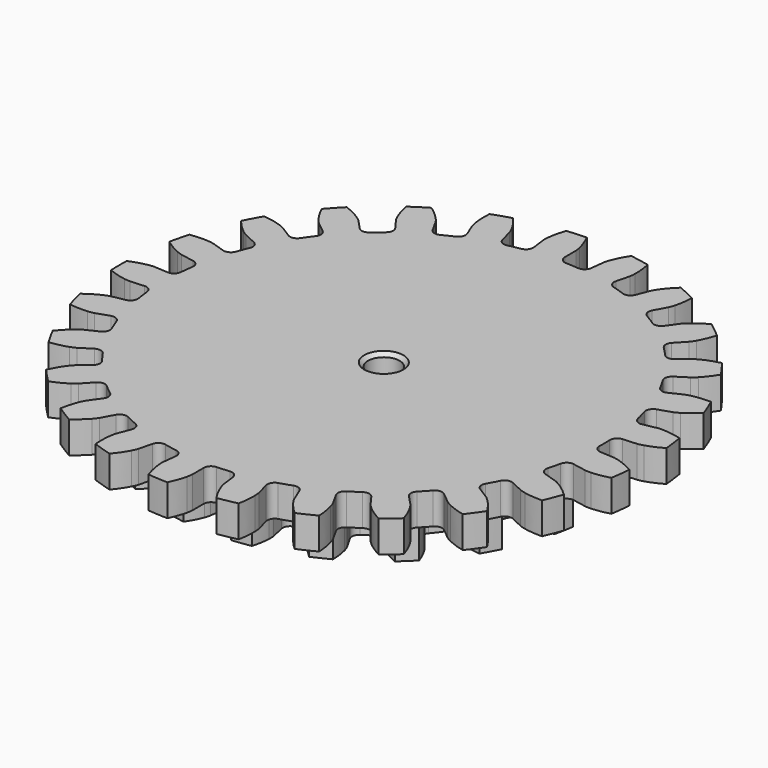
from build123d import *

# Parameters (mm, degrees)
PAD_DEPTH            = 8.5
PAD001_DEPTH         = 8.5
SKETCH001_R          = 4.25
POCKET_DEPTH         = 17.001
CHAMFER032_SIZE      = 1
CHAMFER037_SIZE      = 1
BODY_PLACEMENT_ANGLE = 7.5


with BuildPart() as part:
    # InvoluteGear → Pad (new body)
    with BuildSketch(Plane.XY):
        with BuildLine():
            Line((60.87215, -3.939404), (64.559683, -4.176009))
            add(Edge.make_bspline(
                [(64.559683, -4.176009), (64.737537, -4.17945), (65.274995, -4.173671), (66.171668, -4.026252)],
                knots=[0, 0, 0, 0, 1, 1, 1, 1], degree=3))
            add(Edge.make_bspline(
                [(66.171668, -4.026252), (67.249506, -3.847612), (68.822578, -3.465338), (70.827658, -2.652928)],
                knots=[0, 0, 0, 0, 1, 1, 1, 1], degree=3))
            ThreePointArc((70.827658, -2.652928), (70.877327, 0), (70.827658, 2.652928))
            add(Edge.make_bspline(
                [(70.827658, 2.652928), (68.822578, 3.465338), (67.249506, 3.847612), (66.171668, 4.026252)],
                knots=[0, 0, 0, 0, 1, 1, 1, 1], degree=3))
            add(Edge.make_bspline(
                [(66.171668, 4.026252), (65.274995, 4.173671), (64.737537, 4.17945), (64.559683, 4.176009)],
                knots=[0, 0, 0, 0, 1, 1, 1, 1], degree=3))
            Line((64.559683, 4.176009), (60.87215, 3.939404))
            ThreePointArc((60.87215, 3.939404), (59.470106, 4.403842), (58.785585, 5.712605))
            ThreePointArc((58.785585, 5.712605), (58.596775, 7.402494), (58.359395, 9.086248))
            ThreePointArc((58.359395, 9.086248), (58.696934, 10.524127), (59.939429, 11.322648))
            Line((59.939429, 11.322648), (63.569953, 12.010529))
            add(Edge.make_bspline(
                [(63.569953, 12.010529), (63.743075, 12.051426), (64.262211, 12.190684), (65.094051, 12.556465)],
                knots=[0, 0, 0, 0, 1, 1, 1, 1], degree=3))
            add(Edge.make_bspline(
                [(65.094051, 12.556465), (66.093601, 12.99754), (67.522184, 13.759011), (69.262234, 15.044541)],
                knots=[0, 0, 0, 0, 1, 1, 1, 1], degree=3))
            ThreePointArc((69.262234, 15.044541), (68.650585, 17.626474), (67.942721, 20.183704))
            add(Edge.make_bspline(
                [(67.942721, 20.183704), (65.798595, 20.471947), (64.179876, 20.451004), (63.091475, 20.355985)],
                knots=[0, 0, 0, 0, 1, 1, 1, 1], degree=3))
            add(Edge.make_bspline(
                [(63.091475, 20.355985), (62.186311, 20.275779), (61.664301, 20.147715), (61.492891, 20.100152)],
                knots=[0, 0, 0, 0, 1, 1, 1, 1], degree=3))
            Line((61.492891, 20.100152), (57.980049, 18.953928))
            ThreePointArc((57.980049, 18.953928), (56.506552, 19.055101), (55.518061, 20.152513))
            ThreePointArc((55.518061, 20.152513), (54.914924, 21.742356), (54.266269, 23.314178))
            ThreePointArc((54.266269, 23.314178), (54.235618, 24.790826), (55.240494, 25.873256))
            Line((55.240494, 25.873256), (58.585889, 27.4424))
            add(Edge.make_bspline(
                [(58.585889, 27.4424), (58.743401, 27.525066), (59.211596, 27.789053), (59.926336, 28.350212)],
                knots=[0, 0, 0, 0, 1, 1, 1, 1], degree=3))
            add(Edge.make_bspline(
                [(59.926336, 28.350212), (60.784792, 29.026008), (61.979124, 30.118831), (63.344808, 31.796706)],
                knots=[0, 0, 0, 0, 1, 1, 1, 1], degree=3))
            ThreePointArc((63.344808, 31.796706), (62.110275, 34.145413), (60.788692, 36.446263))
            add(Edge.make_bspline(
                [(60.788692, 36.446263), (58.640245, 36.192228), (57.07759, 35.769384), (56.047013, 35.406676)],
                knots=[0, 0, 0, 0, 1, 1, 1, 1], degree=3))
            add(Edge.make_bspline(
                [(56.047013, 35.406676), (55.190233, 35.103884), (54.716471, 34.850026), (54.562274, 34.761329)],
                knots=[0, 0, 0, 0, 1, 1, 1, 1], degree=3))
            Line((54.562274, 34.761329), (51.444849, 32.777508))
            ThreePointArc((51.444849, 32.777508), (49.992484, 32.509058), (48.762133, 33.326165))
            ThreePointArc((48.762133, 33.326165), (47.782566, 34.716066), (46.763394, 36.077193))
            ThreePointArc((46.763394, 36.077193), (46.366478, 37.499827), (47.070595, 38.798152))
            Line((47.070595, 38.798152), (49.920658, 41.149965))
            add(Edge.make_bspline(
                [(49.920658, 41.149965), (50.052664, 41.269206), (50.440498, 41.641334), (50.993229, 42.362612)],
                knots=[0, 0, 0, 0, 1, 1, 1, 1], degree=3))
            add(Edge.make_bspline(
                [(50.993229, 42.362612), (51.656651, 43.230666), (52.541687, 44.586174), (53.447195, 46.550967)],
                knots=[0, 0, 0, 0, 1, 1, 1, 1], degree=3))
            ThreePointArc((53.447195, 46.550967), (51.667348, 48.518869), (49.815087, 50.41877))
            add(Edge.make_bspline(
                [(49.815087, 50.41877), (47.797313, 49.638419), (46.388908, 48.840243), (45.480911, 48.232635)],
                knots=[0, 0, 0, 0, 1, 1, 1, 1], degree=3))
            add(Edge.make_bspline(
                [(45.480911, 48.232635), (44.726349, 47.726284), (44.330603, 47.362581), (44.203309, 47.238323)],
                knots=[0, 0, 0, 0, 1, 1, 1, 1], degree=3))
            Line((44.203309, 47.238323), (41.67718, 44.541556))
            ThreePointArc((41.67718, 44.541556), (40.337204, 43.920351), (38.942301, 44.405812))
            ThreePointArc((38.942301, 44.405812), (37.647854, 45.508438), (36.322203, 46.573345))
            ThreePointArc((36.322203, 46.573345), (35.583963, 47.852575), (35.943077, 49.285218))
            Line((35.943077, 49.285218), (38.118729, 52.271926))
            add(Edge.make_bspline(
                [(38.118729, 52.271926), (38.216933, 52.420249), (38.500038, 52.877137), (38.85603, 53.713213)],
                knots=[0, 0, 0, 0, 1, 1, 1, 1], degree=3))
            add(Edge.make_bspline(
                [(38.85603, 53.713213), (39.282733, 54.718982), (39.802863, 56.252003), (40.191298, 58.38026)],
                knots=[0, 0, 0, 0, 1, 1, 1, 1], degree=3))
            ThreePointArc((40.191298, 58.38026), (37.977971, 59.843706), (35.711416, 61.22328))
            add(Edge.make_bspline(
                [(35.711416, 61.22328), (33.9511, 59.965645), (32.785441, 58.842289), (32.057076, 58.027961)],
                knots=[0, 0, 0, 0, 1, 1, 1, 1], degree=3))
            add(Edge.make_bspline(
                [(32.057076, 58.027961), (31.452145, 57.349866), (31.159281, 56.899171), (31.066887, 56.74716)],
                knots=[0, 0, 0, 0, 1, 1, 1, 1], degree=3))
            Line((31.066887, 56.74716), (29.29078, 53.506894))
            ThreePointArc((29.29078, 53.506894), (28.14739, 52.571967), (26.67558, 52.695278))
            ThreePointArc((26.67558, 52.695278), (25.147589, 53.441348), (23.598755, 54.143122))
            ThreePointArc((23.598755, 54.143122), (22.565576, 55.19857), (22.557124, 56.675512))
            Line((22.557124, 56.675512), (23.921659, 60.109449))
            add(Edge.make_bspline(
                [(23.921659, 60.109449), (23.979892, 60.277535), (24.14048, 60.790474), (24.277363, 61.688816)],
                knots=[0, 0, 0, 0, 1, 1, 1, 1], degree=3))
            add(Edge.make_bspline(
                [(24.277363, 61.688816), (24.440537, 62.769103), (24.563078, 64.383313), (24.410035, 66.541306)],
                knots=[0, 0, 0, 0, 1, 1, 1, 1], degree=3))
            ThreePointArc((24.410035, 66.541306), (21.902298, 67.408343), (19.363866, 68.180906))
            add(Edge.make_bspline(
                [(19.363866, 68.180906), (17.971614, 66.525009), (17.121944, 65.147058), (16.618977, 64.177176)],
                knots=[0, 0, 0, 0, 1, 1, 1, 1], degree=3))
            add(Edge.make_bspline(
                [(16.618977, 64.177176), (16.201686, 63.369945), (16.030106, 62.860577), (15.978419, 62.690365)],
                knots=[0, 0, 0, 0, 1, 1, 1, 1], degree=3))
            Line((15.978419, 62.690365), (15.063933, 59.110197))
            ThreePointArc((15.063933, 59.110197), (14.188971, 57.920294), (12.732735, 57.673706))
            ThreePointArc((12.732735, 57.673706), (11.067209, 58.016341), (9.39251, 58.310888))
            ThreePointArc((9.39251, 58.310888), (8.12931, 59.076236), (7.753824, 60.504675))
            Line((7.753824, 60.504675), (8.221504, 64.170075))
            add(Edge.make_bspline(
                [(8.221504, 64.170075), (8.236106, 64.347362), (8.264086, 64.884123), (8.173261, 65.788283)],
                knots=[0, 0, 0, 0, 1, 1, 1, 1], degree=3))
            add(Edge.make_bspline(
                [(8.173261, 65.788283), (8.062651, 66.87521), (7.779905, 68.469182), (7.094999, 70.521317)],
                knots=[0, 0, 0, 0, 1, 1, 1, 1], degree=3))
            ThreePointArc((7.094999, 70.521317), (4.450424, 70.737467), (1.799612, 70.854475))
            add(Edge.make_bspline(
                [(1.799612, 70.854475), (0.862906, 68.904362), (0.382612, 67.358398), (0.136646, 66.293904)],
                knots=[0, 0, 0, 0, 1, 1, 1, 1], degree=3))
            add(Edge.make_bspline(
                [(0.136646, 66.293904), (-0.066784, 65.408257), (-0.106299, 64.872222), (-0.114032, 64.694503)],
                knots=[0, 0, 0, 0, 1, 1, 1, 1], degree=3))
            Line((-0.114032, 64.694503), (-0.109436, 60.99939))
            ThreePointArc((-0.109436, 60.99939), (-0.660993, 59.629275), (-2.010155, 59.028283))
            ThreePointArc((-2.010155, 59.028283), (-3.708565, 58.945954), (-5.403902, 58.814766))
            ThreePointArc((-5.403902, 58.814766), (-6.817749, 59.241924), (-7.536677, 60.532107))
            Line((-7.536677, 60.532107), (-7.995238, 64.198659))
            add(Edge.make_bspline(
                [(-7.995238, 64.198659), (-8.025185, 64.374008), (-8.131571, 64.900864), (-8.444398, 65.75403)],
                knots=[0, 0, 0, 0, 1, 1, 1, 1], degree=3))
            add(Edge.make_bspline(
                [(-8.444398, 65.75403), (-8.821841, 66.779302), (-9.492108, 68.25288), (-10.665842, 70.070215)],
                knots=[0, 0, 0, 0, 1, 1, 1, 1], degree=3))
            ThreePointArc((-10.665842, 70.070215), (-13.281087, 69.621894), (-15.877717, 69.075997))
            add(Edge.make_bspline(
                [(-15.877717, 69.075997), (-16.300022, 66.954201), (-16.380761, 65.337361), (-16.35427, 64.245141)],
                knots=[0, 0, 0, 0, 1, 1, 1, 1], degree=3))
            add(Edge.make_bspline(
                [(-16.35427, 64.245141), (-16.331058, 63.336728), (-16.236025, 62.807706), (-16.199318, 62.633647)],
                knots=[0, 0, 0, 0, 1, 1, 1, 1], degree=3))
            Line((-16.199318, 62.633647), (-15.27593, 59.055766))
            ThreePointArc((-15.27593, 59.055766), (-15.469424, 57.591529), (-16.626739, 56.673896))
            ThreePointArc((-16.626739, 56.673896), (-18.251316, 56.171775), (-19.860766, 55.623097))
            ThreePointArc((-19.860766, 55.623097), (-21.336425, 55.685225), (-22.353622, 56.756084))
            Line((-22.353622, 56.756084), (-23.70961, 60.193405))
            add(Edge.make_bspline(
                [(-23.70961, 60.193405), (-23.782223, 60.355798), (-24.016291, 60.839644), (-24.531464, 61.58821)],
                knots=[0, 0, 0, 0, 1, 1, 1, 1], degree=3))
            add(Edge.make_bspline(
                [(-24.531464, 61.58821), (-25.152023, 62.487405), (-26.167697, 63.747999), (-27.756509, 65.216343)],
                knots=[0, 0, 0, 0, 1, 1, 1, 1], degree=3))
            ThreePointArc((-27.756509, 65.216343), (-30.178098, 64.131723), (-32.557391, 62.95722))
            add(Edge.make_bspline(
                [(-32.557391, 62.95722), (-32.43876, 60.797061), (-32.11487, 59.210938), (-31.817588, 58.15962)],
                knots=[0, 0, 0, 0, 1, 1, 1, 1], degree=3))
            add(Edge.make_bspline(
                [(-31.817588, 58.15962), (-31.569192, 57.285519), (-31.345582, 56.796751), (-31.266742, 56.637289)],
                knots=[0, 0, 0, 0, 1, 1, 1, 1], degree=3))
            Line((-31.266742, 56.637289), (-29.48258, 53.401451))
            ThreePointArc((-29.48258, 53.401451), (-29.305855, 51.935096), (-30.198604, 50.758479))
            ThreePointArc((-30.198604, 50.758479), (-31.64727, 49.868118), (-33.069705, 48.936423))
            ThreePointArc((-33.069705, 48.936423), (-34.514454, 48.629618), (-35.766006, 49.413868))
            Line((-35.766006, 49.413868), (-37.934221, 52.405979))
            add(Edge.make_bspline(
                [(-37.934221, 52.405979), (-38.044938, 52.545211), (-38.391979, 52.955646), (-39.077128, 53.552576)],
                knots=[0, 0, 0, 0, 1, 1, 1, 1], degree=3))
            add(Edge.make_bspline(
                [(-39.077128, 53.552576), (-39.901812, 54.269195), (-41.199073, 55.237597), (-43.103132, 56.264689)],
                knots=[0, 0, 0, 0, 1, 1, 1, 1], degree=3))
            ThreePointArc((-43.103132, 56.264689), (-45.178908, 54.611919), (-47.191365, 52.882609))
            add(Edge.make_bspline(
                [(-47.191365, 52.882609), (-46.539251, 50.819818), (-45.831084, 49.364074), (-45.281689, 48.419717)],
                knots=[0, 0, 0, 0, 1, 1, 1, 1], degree=3))
            add(Edge.make_bspline(
                [(-45.281689, 48.419717), (-44.823717, 47.63485), (-44.48558, 47.217048), (-44.36956, 47.082202)],
                knots=[0, 0, 0, 0, 1, 1, 1, 1], degree=3))
            Line((-44.36956, 47.082202), (-41.836731, 44.391727))
            ThreePointArc((-41.836731, 44.391727), (-41.30089, 43.01539), (-41.87298, 41.653721))
            ThreePointArc((-41.87298, 41.653721), (-43.05471, 40.431063), (-44.200753, 39.174894))
            ThreePointArc((-44.200753, 39.174894), (-45.523813, 38.518434), (-46.93108, 38.966796))
            Line((-46.93108, 38.966796), (-49.775284, 41.325691))
            add(Edge.make_bspline(
                [(-49.775284, 41.325691), (-49.917149, 41.433015), (-50.355358, 41.74425), (-51.167432, 42.152037)],
                knots=[0, 0, 0, 0, 1, 1, 1, 1], degree=3))
            add(Edge.make_bspline(
                [(-51.167432, 42.152037), (-52.144423, 42.641051), (-53.64176, 43.256413), (-55.741427, 43.777717)],
                knots=[0, 0, 0, 0, 1, 1, 1, 1], degree=3))
            ThreePointArc((-55.741427, 43.777717), (-57.340962, 41.660647), (-58.860131, 39.485189))
            add(Edge.make_bspline(
                [(-58.860131, 39.485189), (-57.715509, 37.649379), (-56.667562, 36.415484), (-55.900576, 35.637424)],
                knots=[0, 0, 0, 0, 1, 1, 1, 1], degree=3))
            add(Edge.make_bspline(
                [(-55.900576, 35.637424), (-55.261803, 34.991109), (-54.830386, 34.670524), (-54.684477, 34.568768)],
                knots=[0, 0, 0, 0, 1, 1, 1, 1], degree=3))
            Line((-54.684477, 34.568768), (-51.562127, 32.592707))
            ThreePointArc((-51.562127, 32.592707), (-50.700839, 31.392869), (-50.916322, 29.931706))
            ThreePointArc((-50.916322, 29.931706), (-51.756863, 28.453576), (-52.554505, 26.951863))
            ThreePointArc((-52.554505, 26.951863), (-53.672744, 25.986994), (-55.147302, 26.071298))
            Line((-55.147302, 26.071298), (-58.488784, 27.648759))
            add(Edge.make_bspline(
                [(-58.488784, 27.648759), (-58.652881, 27.717431), (-59.154725, 27.90991), (-60.042699, 28.10293)],
                knots=[0, 0, 0, 0, 1, 1, 1, 1], degree=3))
            add(Edge.make_bspline(
                [(-60.042699, 28.10293), (-61.110608, 28.333613), (-62.713938, 28.55727), (-64.877283, 28.54003)],
                knots=[0, 0, 0, 0, 1, 1, 1, 1], degree=3))
            ThreePointArc((-64.877283, 28.54003), (-65.900072, 26.091684), (-66.830499, 23.60677))
            add(Edge.make_bspline(
                [(-66.830499, 23.60677), (-65.26529, 22.113291), (-63.943409, 21.178775), (-63.007023, 20.615901)],
                knots=[0, 0, 0, 0, 1, 1, 1, 1], degree=3))
            add(Edge.make_bspline(
                [(-63.007023, 20.615901), (-62.227586, 20.148747), (-61.729998, 19.945523), (-61.563366, 19.88325)],
                knots=[0, 0, 0, 0, 1, 1, 1, 1], degree=3))
            Line((-61.563366, 19.88325), (-58.047685, 18.745768))
            ThreePointArc((-58.047685, 18.745768), (-56.915068, 17.797818), (-56.760405, 16.328972))
            ThreePointArc((-56.760405, 16.328972), (-57.206943, 14.688246), (-57.606064, 13.035347))
            ThreePointArc((-57.606064, 13.035347), (-58.449219, 11.822697), (-59.898416, 11.537644))
            Line((-59.898416, 11.537644), (-63.527218, 12.234553))
            add(Edge.make_bspline(
                [(-63.527218, 12.234553), (-63.703238, 12.260258), (-64.237183, 12.321887), (-65.145261, 12.288013)],
                knots=[0, 0, 0, 0, 1, 1, 1, 1], degree=3))
            add(Edge.make_bspline(
                [(-65.145261, 12.288013), (-66.236989, 12.24587), (-67.845569, 12.063769), (-69.936661, 11.509068)],
                knots=[0, 0, 0, 0, 1, 1, 1, 1], degree=3))
            ThreePointArc((-69.936661, 11.509068), (-70.318438, 8.883285), (-70.601661, 6.245051))
            add(Edge.make_bspline(
                [(-70.601661, 6.245051), (-68.714213, 5.187744), (-67.201457, 4.611326), (-66.154508, 4.299005)],
                knots=[0, 0, 0, 0, 1, 1, 1, 1], degree=3))
            add(Edge.make_bspline(
                [(-66.154508, 4.299005), (-65.283382, 4.040366), (-64.750886, 3.967271), (-64.574003, 3.948394)],
                knots=[0, 0, 0, 0, 1, 1, 1, 1], degree=3))
            Line((-64.574003, 3.948394), (-60.885893, 3.720963))
            ThreePointArc((-60.885893, 3.720963), (-59.553114, 3.084465), (-59.038023, 1.700229))
            ThreePointArc((-59.038023, 1.700229), (-59.0625, 0), (-59.038023, -1.700229))
            ThreePointArc((-59.038023, -1.700229), (-59.553114, -3.084465), (-60.885893, -3.720963))
            Line((-60.885893, -3.720963), (-64.574003, -3.948394))
            add(Edge.make_bspline(
                [(-64.574003, -3.948394), (-64.750886, -3.967271), (-65.283382, -4.040366), (-66.154508, -4.299005)],
                knots=[0, 0, 0, 0, 1, 1, 1, 1], degree=3))
            add(Edge.make_bspline(
                [(-66.154508, -4.299005), (-67.201457, -4.611326), (-68.714213, -5.187744), (-70.601661, -6.245051)],
                knots=[0, 0, 0, 0, 1, 1, 1, 1], degree=3))
            ThreePointArc((-70.601661, -6.245051), (-70.318438, -8.883285), (-69.936661, -11.509068))
            add(Edge.make_bspline(
                [(-69.936661, -11.509068), (-67.845569, -12.063769), (-66.236989, -12.24587), (-65.145261, -12.288013)],
                knots=[0, 0, 0, 0, 1, 1, 1, 1], degree=3))
            add(Edge.make_bspline(
                [(-65.145261, -12.288013), (-64.237183, -12.321887), (-63.703238, -12.260258), (-63.527218, -12.234553)],
                knots=[0, 0, 0, 0, 1, 1, 1, 1], degree=3))
            Line((-63.527218, -12.234553), (-59.898416, -11.537644))
            ThreePointArc((-59.898416, -11.537644), (-58.449219, -11.822697), (-57.606064, -13.035347))
            ThreePointArc((-57.606064, -13.035347), (-57.206943, -14.688246), (-56.760405, -16.328972))
            ThreePointArc((-56.760405, -16.328972), (-56.915068, -17.797818), (-58.047685, -18.745768))
            Line((-58.047685, -18.745768), (-61.563366, -19.88325))
            add(Edge.make_bspline(
                [(-61.563366, -19.88325), (-61.729998, -19.945523), (-62.227586, -20.148747), (-63.007023, -20.615901)],
                knots=[0, 0, 0, 0, 1, 1, 1, 1], degree=3))
            add(Edge.make_bspline(
                [(-63.007023, -20.615901), (-63.943409, -21.178775), (-65.26529, -22.113291), (-66.830499, -23.60677)],
                knots=[0, 0, 0, 0, 1, 1, 1, 1], degree=3))
            ThreePointArc((-66.830499, -23.60677), (-65.900072, -26.091684), (-64.877283, -28.54003))
            add(Edge.make_bspline(
                [(-64.877283, -28.54003), (-62.713938, -28.55727), (-61.110608, -28.333613), (-60.042699, -28.10293)],
                knots=[0, 0, 0, 0, 1, 1, 1, 1], degree=3))
            add(Edge.make_bspline(
                [(-60.042699, -28.10293), (-59.154725, -27.90991), (-58.652881, -27.717431), (-58.488784, -27.648759)],
                knots=[0, 0, 0, 0, 1, 1, 1, 1], degree=3))
            Line((-58.488784, -27.648759), (-55.147302, -26.071298))
            ThreePointArc((-55.147302, -26.071298), (-53.672744, -25.986994), (-52.554505, -26.951863))
            ThreePointArc((-52.554505, -26.951863), (-51.756863, -28.453576), (-50.916322, -29.931706))
            ThreePointArc((-50.916322, -29.931706), (-50.700839, -31.392869), (-51.562127, -32.592707))
            Line((-51.562127, -32.592707), (-54.684477, -34.568768))
            add(Edge.make_bspline(
                [(-54.684477, -34.568768), (-54.830386, -34.670524), (-55.261803, -34.991109), (-55.900576, -35.637424)],
                knots=[0, 0, 0, 0, 1, 1, 1, 1], degree=3))
            add(Edge.make_bspline(
                [(-55.900576, -35.637424), (-56.667562, -36.415484), (-57.715509, -37.649379), (-58.860131, -39.485189)],
                knots=[0, 0, 0, 0, 1, 1, 1, 1], degree=3))
            ThreePointArc((-58.860131, -39.485189), (-57.340962, -41.660647), (-55.741427, -43.777717))
            add(Edge.make_bspline(
                [(-55.741427, -43.777717), (-53.64176, -43.256413), (-52.144423, -42.641051), (-51.167432, -42.152037)],
                knots=[0, 0, 0, 0, 1, 1, 1, 1], degree=3))
            add(Edge.make_bspline(
                [(-51.167432, -42.152037), (-50.355358, -41.74425), (-49.917149, -41.433015), (-49.775284, -41.325691)],
                knots=[0, 0, 0, 0, 1, 1, 1, 1], degree=3))
            Line((-49.775284, -41.325691), (-46.93108, -38.966796))
            ThreePointArc((-46.93108, -38.966796), (-45.523813, -38.518434), (-44.200753, -39.174894))
            ThreePointArc((-44.200753, -39.174894), (-43.05471, -40.431063), (-41.87298, -41.653721))
            ThreePointArc((-41.87298, -41.653721), (-41.30089, -43.01539), (-41.836731, -44.391727))
            Line((-41.836731, -44.391727), (-44.36956, -47.082202))
            add(Edge.make_bspline(
                [(-44.36956, -47.082202), (-44.48558, -47.217048), (-44.823717, -47.63485), (-45.281689, -48.419717)],
                knots=[0, 0, 0, 0, 1, 1, 1, 1], degree=3))
            add(Edge.make_bspline(
                [(-45.281689, -48.419717), (-45.831084, -49.364074), (-46.539251, -50.819818), (-47.191365, -52.882609)],
                knots=[0, 0, 0, 0, 1, 1, 1, 1], degree=3))
            ThreePointArc((-47.191365, -52.882609), (-45.178908, -54.611919), (-43.103132, -56.264689))
            add(Edge.make_bspline(
                [(-43.103132, -56.264689), (-41.199073, -55.237597), (-39.901812, -54.269195), (-39.077128, -53.552576)],
                knots=[0, 0, 0, 0, 1, 1, 1, 1], degree=3))
            add(Edge.make_bspline(
                [(-39.077128, -53.552576), (-38.391979, -52.955646), (-38.044938, -52.545211), (-37.934221, -52.405979)],
                knots=[0, 0, 0, 0, 1, 1, 1, 1], degree=3))
            Line((-37.934221, -52.405979), (-35.766006, -49.413868))
            ThreePointArc((-35.766006, -49.413868), (-34.514454, -48.629618), (-33.069705, -48.936423))
            ThreePointArc((-33.069705, -48.936423), (-31.64727, -49.868118), (-30.198604, -50.758479))
            ThreePointArc((-30.198604, -50.758479), (-29.305855, -51.935096), (-29.48258, -53.401451))
            Line((-29.48258, -53.401451), (-31.266742, -56.637289))
            add(Edge.make_bspline(
                [(-31.266742, -56.637289), (-31.345582, -56.796751), (-31.569192, -57.285519), (-31.817588, -58.15962)],
                knots=[0, 0, 0, 0, 1, 1, 1, 1], degree=3))
            add(Edge.make_bspline(
                [(-31.817588, -58.15962), (-32.11487, -59.210938), (-32.43876, -60.797061), (-32.557391, -62.95722)],
                knots=[0, 0, 0, 0, 1, 1, 1, 1], degree=3))
            ThreePointArc((-32.557391, -62.95722), (-30.178098, -64.131723), (-27.756509, -65.216343))
            add(Edge.make_bspline(
                [(-27.756509, -65.216343), (-26.167697, -63.747999), (-25.152023, -62.487405), (-24.531464, -61.58821)],
                knots=[0, 0, 0, 0, 1, 1, 1, 1], degree=3))
            add(Edge.make_bspline(
                [(-24.531464, -61.58821), (-24.016291, -60.839644), (-23.782223, -60.355798), (-23.70961, -60.193405)],
                knots=[0, 0, 0, 0, 1, 1, 1, 1], degree=3))
            Line((-23.70961, -60.193405), (-22.353622, -56.756084))
            ThreePointArc((-22.353622, -56.756084), (-21.336425, -55.685225), (-19.860766, -55.623097))
            ThreePointArc((-19.860766, -55.623097), (-18.251316, -56.171775), (-16.626739, -56.673896))
            ThreePointArc((-16.626739, -56.673896), (-15.469424, -57.591529), (-15.27593, -59.055766))
            Line((-15.27593, -59.055766), (-16.199318, -62.633647))
            add(Edge.make_bspline(
                [(-16.199318, -62.633647), (-16.236025, -62.807706), (-16.331058, -63.336728), (-16.35427, -64.245141)],
                knots=[0, 0, 0, 0, 1, 1, 1, 1], degree=3))
            add(Edge.make_bspline(
                [(-16.35427, -64.245141), (-16.380761, -65.337361), (-16.300022, -66.954201), (-15.877717, -69.075997)],
                knots=[0, 0, 0, 0, 1, 1, 1, 1], degree=3))
            ThreePointArc((-15.877717, -69.075997), (-13.281087, -69.621894), (-10.665842, -70.070215))
            add(Edge.make_bspline(
                [(-10.665842, -70.070215), (-9.492108, -68.25288), (-8.821841, -66.779302), (-8.444398, -65.75403)],
                knots=[0, 0, 0, 0, 1, 1, 1, 1], degree=3))
            add(Edge.make_bspline(
                [(-8.444398, -65.75403), (-8.131571, -64.900864), (-8.025185, -64.374008), (-7.995238, -64.198659)],
                knots=[0, 0, 0, 0, 1, 1, 1, 1], degree=3))
            Line((-7.995238, -64.198659), (-7.536677, -60.532107))
            ThreePointArc((-7.536677, -60.532107), (-6.817749, -59.241924), (-5.403902, -58.814766))
            ThreePointArc((-5.403902, -58.814766), (-3.708565, -58.945954), (-2.010155, -59.028283))
            ThreePointArc((-2.010155, -59.028283), (-0.660993, -59.629275), (-0.109436, -60.99939))
            Line((-0.109436, -60.99939), (-0.114032, -64.694503))
            add(Edge.make_bspline(
                [(-0.114032, -64.694503), (-0.106299, -64.872222), (-0.066784, -65.408257), (0.136646, -66.293904)],
                knots=[0, 0, 0, 0, 1, 1, 1, 1], degree=3))
            add(Edge.make_bspline(
                [(0.136646, -66.293904), (0.382612, -67.358398), (0.862906, -68.904362), (1.799612, -70.854475)],
                knots=[0, 0, 0, 0, 1, 1, 1, 1], degree=3))
            ThreePointArc((1.799612, -70.854475), (4.450424, -70.737467), (7.094999, -70.521317))
            add(Edge.make_bspline(
                [(7.094999, -70.521317), (7.779905, -68.469182), (8.062651, -66.87521), (8.173261, -65.788283)],
                knots=[0, 0, 0, 0, 1, 1, 1, 1], degree=3))
            add(Edge.make_bspline(
                [(8.173261, -65.788283), (8.264086, -64.884123), (8.236106, -64.347362), (8.221504, -64.170075)],
                knots=[0, 0, 0, 0, 1, 1, 1, 1], degree=3))
            Line((8.221504, -64.170075), (7.753824, -60.504675))
            ThreePointArc((7.753824, -60.504675), (8.12931, -59.076236), (9.39251, -58.310888))
            ThreePointArc((9.39251, -58.310888), (11.067209, -58.016341), (12.732735, -57.673706))
            ThreePointArc((12.732735, -57.673706), (14.188971, -57.920294), (15.063933, -59.110197))
            Line((15.063933, -59.110197), (15.978419, -62.690365))
            add(Edge.make_bspline(
                [(15.978419, -62.690365), (16.030106, -62.860577), (16.201686, -63.369945), (16.618977, -64.177176)],
                knots=[0, 0, 0, 0, 1, 1, 1, 1], degree=3))
            add(Edge.make_bspline(
                [(16.618977, -64.177176), (17.121944, -65.147058), (17.971614, -66.525009), (19.363866, -68.180906)],
                knots=[0, 0, 0, 0, 1, 1, 1, 1], degree=3))
            ThreePointArc((19.363866, -68.180906), (21.902298, -67.408343), (24.410035, -66.541306))
            add(Edge.make_bspline(
                [(24.410035, -66.541306), (24.563078, -64.383313), (24.440537, -62.769103), (24.277363, -61.688816)],
                knots=[0, 0, 0, 0, 1, 1, 1, 1], degree=3))
            add(Edge.make_bspline(
                [(24.277363, -61.688816), (24.14048, -60.790474), (23.979892, -60.277535), (23.921659, -60.109449)],
                knots=[0, 0, 0, 0, 1, 1, 1, 1], degree=3))
            Line((23.921659, -60.109449), (22.557124, -56.675512))
            ThreePointArc((22.557124, -56.675512), (22.565576, -55.19857), (23.598755, -54.143122))
            ThreePointArc((23.598755, -54.143122), (25.147589, -53.441348), (26.67558, -52.695278))
            ThreePointArc((26.67558, -52.695278), (28.14739, -52.571967), (29.29078, -53.506894))
            Line((29.29078, -53.506894), (31.066887, -56.74716))
            add(Edge.make_bspline(
                [(31.066887, -56.74716), (31.159281, -56.899171), (31.452145, -57.349866), (32.057076, -58.027961)],
                knots=[0, 0, 0, 0, 1, 1, 1, 1], degree=3))
            add(Edge.make_bspline(
                [(32.057076, -58.027961), (32.785441, -58.842289), (33.9511, -59.965645), (35.711416, -61.22328)],
                knots=[0, 0, 0, 0, 1, 1, 1, 1], degree=3))
            ThreePointArc((35.711416, -61.22328), (37.977971, -59.843706), (40.191298, -58.38026))
            add(Edge.make_bspline(
                [(40.191298, -58.38026), (39.802863, -56.252003), (39.282733, -54.718982), (38.85603, -53.713213)],
                knots=[0, 0, 0, 0, 1, 1, 1, 1], degree=3))
            add(Edge.make_bspline(
                [(38.85603, -53.713213), (38.500038, -52.877137), (38.216933, -52.420249), (38.118729, -52.271926)],
                knots=[0, 0, 0, 0, 1, 1, 1, 1], degree=3))
            Line((38.118729, -52.271926), (35.943077, -49.285218))
            ThreePointArc((35.943077, -49.285218), (35.583963, -47.852575), (36.322203, -46.573345))
            ThreePointArc((36.322203, -46.573345), (37.647854, -45.508438), (38.942301, -44.405812))
            ThreePointArc((38.942301, -44.405812), (40.337204, -43.920351), (41.67718, -44.541556))
            Line((41.67718, -44.541556), (44.203309, -47.238323))
            add(Edge.make_bspline(
                [(44.203309, -47.238323), (44.330603, -47.362581), (44.726349, -47.726284), (45.480911, -48.232635)],
                knots=[0, 0, 0, 0, 1, 1, 1, 1], degree=3))
            add(Edge.make_bspline(
                [(45.480911, -48.232635), (46.388908, -48.840243), (47.797313, -49.638419), (49.815087, -50.41877)],
                knots=[0, 0, 0, 0, 1, 1, 1, 1], degree=3))
            ThreePointArc((49.815087, -50.41877), (51.667348, -48.518869), (53.447195, -46.550967))
            add(Edge.make_bspline(
                [(53.447195, -46.550967), (52.541687, -44.586174), (51.656651, -43.230666), (50.993229, -42.362612)],
                knots=[0, 0, 0, 0, 1, 1, 1, 1], degree=3))
            add(Edge.make_bspline(
                [(50.993229, -42.362612), (50.440498, -41.641334), (50.052664, -41.269206), (49.920658, -41.149965)],
                knots=[0, 0, 0, 0, 1, 1, 1, 1], degree=3))
            Line((49.920658, -41.149965), (47.070595, -38.798152))
            ThreePointArc((47.070595, -38.798152), (46.366478, -37.499827), (46.763394, -36.077193))
            ThreePointArc((46.763394, -36.077193), (47.782566, -34.716066), (48.762133, -33.326165))
            ThreePointArc((48.762133, -33.326165), (49.992484, -32.509058), (51.444849, -32.777508))
            Line((51.444849, -32.777508), (54.562274, -34.761329))
            add(Edge.make_bspline(
                [(54.562274, -34.761329), (54.716471, -34.850026), (55.190233, -35.103884), (56.047013, -35.406676)],
                knots=[0, 0, 0, 0, 1, 1, 1, 1], degree=3))
            add(Edge.make_bspline(
                [(56.047013, -35.406676), (57.07759, -35.769384), (58.640245, -36.192228), (60.788692, -36.446263)],
                knots=[0, 0, 0, 0, 1, 1, 1, 1], degree=3))
            ThreePointArc((60.788692, -36.446263), (62.110275, -34.145413), (63.344808, -31.796706))
            add(Edge.make_bspline(
                [(63.344808, -31.796706), (61.979124, -30.118831), (60.784792, -29.026008), (59.926336, -28.350212)],
                knots=[0, 0, 0, 0, 1, 1, 1, 1], degree=3))
            add(Edge.make_bspline(
                [(59.926336, -28.350212), (59.211596, -27.789053), (58.743401, -27.525066), (58.585889, -27.4424)],
                knots=[0, 0, 0, 0, 1, 1, 1, 1], degree=3))
            Line((58.585889, -27.4424), (55.240494, -25.873256))
            ThreePointArc((55.240494, -25.873256), (54.235618, -24.790826), (54.266269, -23.314178))
            ThreePointArc((54.266269, -23.314178), (54.914924, -21.742356), (55.518061, -20.152513))
            ThreePointArc((55.518061, -20.152513), (56.506552, -19.055101), (57.980049, -18.953928))
            Line((57.980049, -18.953928), (61.492891, -20.100152))
            add(Edge.make_bspline(
                [(61.492891, -20.100152), (61.664301, -20.147715), (62.186311, -20.275779), (63.091475, -20.355985)],
                knots=[0, 0, 0, 0, 1, 1, 1, 1], degree=3))
            add(Edge.make_bspline(
                [(63.091475, -20.355985), (64.179876, -20.451004), (65.798595, -20.471947), (67.942721, -20.183704)],
                knots=[0, 0, 0, 0, 1, 1, 1, 1], degree=3))
            ThreePointArc((67.942721, -20.183704), (68.650585, -17.626474), (69.262234, -15.044541))
            add(Edge.make_bspline(
                [(69.262234, -15.044541), (67.522184, -13.759011), (66.093601, -12.99754), (65.094051, -12.556465)],
                knots=[0, 0, 0, 0, 1, 1, 1, 1], degree=3))
            add(Edge.make_bspline(
                [(65.094051, -12.556465), (64.262211, -12.190684), (63.743075, -12.051426), (63.569953, -12.010529)],
                knots=[0, 0, 0, 0, 1, 1, 1, 1], degree=3))
            Line((63.569953, -12.010529), (59.939429, -11.322648))
            ThreePointArc((59.939429, -11.322648), (58.696934, -10.524127), (58.359395, -9.086248))
            ThreePointArc((58.359395, -9.086248), (58.596775, -7.402494), (58.785585, -5.712605))
            ThreePointArc((58.785585, -5.712605), (59.470106, -4.403842), (60.87215, -3.939404))
        make_face()
    extrude(amount=PAD_DEPTH)

    # InvoluteGear001 → Pad001 (join)
    with BuildSketch(Plane.XY):
        with BuildLine():
            Line((47.711411, -3.841109), (51.600964, -4.152025))
            add(Edge.make_bspline(
                [(51.600964, -4.152025), (51.774762, -4.157279), (52.299528, -4.155691), (53.176068, -4.004317)],
                knots=[0, 0, 0, 0, 1, 1, 1, 1], degree=3))
            add(Edge.make_bspline(
                [(53.176068, -4.004317), (54.228362, -3.820695), (55.759297, -3.422287), (57.695732, -2.5657)],
                knots=[0, 0, 0, 0, 1, 1, 1, 1], degree=3))
            ThreePointArc((57.695732, -2.5657), (57.752755, 0), (57.695732, 2.5657))
            add(Edge.make_bspline(
                [(57.695732, 2.5657), (55.759297, 3.422287), (54.228362, 3.820695), (53.176068, 4.004317)],
                knots=[0, 0, 0, 0, 1, 1, 1, 1], degree=3))
            add(Edge.make_bspline(
                [(53.176068, 4.004317), (52.299528, 4.155691), (51.774762, 4.157279), (51.600964, 4.152025)],
                knots=[0, 0, 0, 0, 1, 1, 1, 1], degree=3))
            Line((51.600964, 4.152025), (47.711411, 3.841109))
            ThreePointArc((47.711411, 3.841109), (46.309212, 4.277759), (45.599366, 5.563427))
            ThreePointArc((45.599366, 5.563427), (45.371933, 7.186208), (45.086768, 8.799845))
            ThreePointArc((45.086768, 8.799845), (45.364578, 10.241943), (46.563216, 11.090525))
            Line((46.563216, 11.090525), (50.358479, 11.996764))
            add(Edge.make_bspline(
                [(50.358479, 11.996764), (50.525394, 12.045474), (51.023986, 12.209146), (51.810848, 12.623977)],
                knots=[0, 0, 0, 0, 1, 1, 1, 1], degree=3))
            add(Edge.make_bspline(
                [(51.810848, 12.623977), (52.754897, 13.123789), (54.087788, 13.975782), (55.664747, 15.388836)],
                knots=[0, 0, 0, 0, 1, 1, 1, 1], degree=3))
            ThreePointArc((55.664747, 15.388836), (54.926134, 17.846583), (54.079057, 20.269088))
            add(Edge.make_bspline(
                [(54.079057, 20.269088), (51.972698, 20.485359), (50.393577, 20.391182), (49.336044, 20.24064)],
                knots=[0, 0, 0, 0, 1, 1, 1, 1], degree=3))
            add(Edge.make_bspline(
                [(49.336044, 20.24064), (48.455628, 20.11374), (47.956055, 19.953088), (47.792387, 19.894385)],
                knots=[0, 0, 0, 0, 1, 1, 1, 1], degree=3))
            Line((47.792387, 19.894385), (44.18928, 18.396748))
            ThreePointArc((44.18928, 18.396748), (42.720777, 18.378724), (41.648381, 19.382113))
            ThreePointArc((41.648381, 19.382113), (40.930612, 20.855189), (40.160763, 22.301728))
            ThreePointArc((40.160763, 22.301728), (39.979343, 23.759092), (40.857089, 24.936541))
            Line((40.857089, 24.936541), (44.186556, 26.971227))
            add(Edge.make_bspline(
                [(44.186556, 26.971227), (44.330249, 27.069132), (44.753861, 27.378867), (45.374021, 28.016548)],
                knots=[0, 0, 0, 0, 1, 1, 1, 1], degree=3))
            add(Edge.make_bspline(
                [(45.374021, 28.016548), (46.117414, 28.783624), (47.121789, 30.005804), (48.184909, 31.837005)],
                knots=[0, 0, 0, 0, 1, 1, 1, 1], degree=3))
            ThreePointArc((48.184909, 31.837005), (46.72296, 33.946218), (45.168747, 35.988396))
            add(Edge.make_bspline(
                [(45.168747, 35.988396), (43.098649, 35.543181), (41.625918, 34.965638), (40.666665, 34.495669)],
                knots=[0, 0, 0, 0, 1, 1, 1, 1], degree=3))
            add(Edge.make_bspline(
                [(40.666665, 34.495669), (39.868553, 34.102916), (39.443075, 33.79575), (39.305558, 33.689344)],
                knots=[0, 0, 0, 0, 1, 1, 1, 1], degree=3))
            Line((39.305558, 33.689344), (36.341595, 31.151586))
            ThreePointArc((36.341595, 31.151586), (34.950536, 30.680651), (33.620561, 31.303542))
            ThreePointArc((33.620561, 31.303542), (32.482718, 32.482718), (31.303542, 33.620561))
            ThreePointArc((31.303542, 33.620561), (30.680651, 34.950536), (31.151586, 36.341595))
            Line((31.151586, 36.341595), (33.689344, 39.305558))
            add(Edge.make_bspline(
                [(33.689344, 39.305558), (33.79575, 39.443075), (34.102916, 39.868553), (34.495669, 40.666665)],
                knots=[0, 0, 0, 0, 1, 1, 1, 1], degree=3))
            add(Edge.make_bspline(
                [(34.495669, 40.666665), (34.965638, 41.625918), (35.543181, 43.098649), (35.988396, 45.168747)],
                knots=[0, 0, 0, 0, 1, 1, 1, 1], degree=3))
            ThreePointArc((35.988396, 45.168747), (33.946218, 46.72296), (31.837005, 48.184909))
            add(Edge.make_bspline(
                [(31.837005, 48.184909), (30.005804, 47.121789), (28.783624, 46.117414), (28.016548, 45.374021)],
                knots=[0, 0, 0, 0, 1, 1, 1, 1], degree=3))
            add(Edge.make_bspline(
                [(28.016548, 45.374021), (27.378867, 44.753861), (27.069132, 44.330249), (26.971227, 44.186556)],
                knots=[0, 0, 0, 0, 1, 1, 1, 1], degree=3))
            Line((26.971227, 44.186556), (24.936541, 40.857089))
            ThreePointArc((24.936541, 40.857089), (23.759092, 39.979343), (22.301728, 40.160763))
            ThreePointArc((22.301728, 40.160763), (20.855189, 40.930612), (19.382113, 41.648381))
            ThreePointArc((19.382113, 41.648381), (18.378724, 42.720777), (18.396748, 44.18928))
            Line((18.396748, 44.18928), (19.894385, 47.792387))
            add(Edge.make_bspline(
                [(19.894385, 47.792387), (19.953088, 47.956055), (20.11374, 48.455628), (20.24064, 49.336044)],
                knots=[0, 0, 0, 0, 1, 1, 1, 1], degree=3))
            add(Edge.make_bspline(
                [(20.24064, 49.336044), (20.391182, 50.393577), (20.485359, 51.972698), (20.269088, 54.079057)],
                knots=[0, 0, 0, 0, 1, 1, 1, 1], degree=3))
            ThreePointArc((20.269088, 54.079057), (17.846583, 54.926134), (15.388836, 55.664747))
            add(Edge.make_bspline(
                [(15.388836, 55.664747), (13.975782, 54.087788), (13.123789, 52.754897), (12.623977, 51.810848)],
                knots=[0, 0, 0, 0, 1, 1, 1, 1], degree=3))
            add(Edge.make_bspline(
                [(12.623977, 51.810848), (12.209146, 51.023986), (12.045474, 50.525394), (11.996764, 50.358479)],
                knots=[0, 0, 0, 0, 1, 1, 1, 1], degree=3))
            Line((11.996764, 50.358479), (11.090525, 46.563216))
            ThreePointArc((11.090525, 46.563216), (10.241943, 45.364578), (8.799845, 45.086768))
            ThreePointArc((8.799845, 45.086768), (7.186208, 45.371933), (5.563427, 45.599366))
            ThreePointArc((5.563427, 45.599366), (4.277759, 46.309212), (3.841109, 47.711411))
            Line((3.841109, 47.711411), (4.152025, 51.600964))
            add(Edge.make_bspline(
                [(4.152025, 51.600964), (4.157279, 51.774762), (4.155691, 52.299528), (4.004317, 53.176068)],
                knots=[0, 0, 0, 0, 1, 1, 1, 1], degree=3))
            add(Edge.make_bspline(
                [(4.004317, 53.176068), (3.820695, 54.228362), (3.422287, 55.759297), (2.5657, 57.695732)],
                knots=[0, 0, 0, 0, 1, 1, 1, 1], degree=3))
            ThreePointArc((2.5657, 57.695732), (0, 57.752755), (-2.5657, 57.695732))
            add(Edge.make_bspline(
                [(-2.5657, 57.695732), (-3.422287, 55.759297), (-3.820695, 54.228362), (-4.004317, 53.176068)],
                knots=[0, 0, 0, 0, 1, 1, 1, 1], degree=3))
            add(Edge.make_bspline(
                [(-4.004317, 53.176068), (-4.155691, 52.299528), (-4.157279, 51.774762), (-4.152025, 51.600964)],
                knots=[0, 0, 0, 0, 1, 1, 1, 1], degree=3))
            Line((-4.152025, 51.600964), (-3.841109, 47.711411))
            ThreePointArc((-3.841109, 47.711411), (-4.277759, 46.309212), (-5.563427, 45.599366))
            ThreePointArc((-5.563427, 45.599366), (-7.186208, 45.371933), (-8.799845, 45.086768))
            ThreePointArc((-8.799845, 45.086768), (-10.241943, 45.364578), (-11.090525, 46.563216))
            Line((-11.090525, 46.563216), (-11.996764, 50.358479))
            add(Edge.make_bspline(
                [(-11.996764, 50.358479), (-12.045474, 50.525394), (-12.209146, 51.023986), (-12.623977, 51.810848)],
                knots=[0, 0, 0, 0, 1, 1, 1, 1], degree=3))
            add(Edge.make_bspline(
                [(-12.623977, 51.810848), (-13.123789, 52.754897), (-13.975782, 54.087788), (-15.388836, 55.664747)],
                knots=[0, 0, 0, 0, 1, 1, 1, 1], degree=3))
            ThreePointArc((-15.388836, 55.664747), (-17.846583, 54.926134), (-20.269088, 54.079057))
            add(Edge.make_bspline(
                [(-20.269088, 54.079057), (-20.485359, 51.972698), (-20.391182, 50.393577), (-20.24064, 49.336044)],
                knots=[0, 0, 0, 0, 1, 1, 1, 1], degree=3))
            add(Edge.make_bspline(
                [(-20.24064, 49.336044), (-20.11374, 48.455628), (-19.953088, 47.956055), (-19.894385, 47.792387)],
                knots=[0, 0, 0, 0, 1, 1, 1, 1], degree=3))
            Line((-19.894385, 47.792387), (-18.396748, 44.18928))
            ThreePointArc((-18.396748, 44.18928), (-18.378724, 42.720777), (-19.382113, 41.648381))
            ThreePointArc((-19.382113, 41.648381), (-20.855189, 40.930612), (-22.301728, 40.160763))
            ThreePointArc((-22.301728, 40.160763), (-23.759092, 39.979343), (-24.936541, 40.857089))
            Line((-24.936541, 40.857089), (-26.971227, 44.186556))
            add(Edge.make_bspline(
                [(-26.971227, 44.186556), (-27.069132, 44.330249), (-27.378867, 44.753861), (-28.016548, 45.374021)],
                knots=[0, 0, 0, 0, 1, 1, 1, 1], degree=3))
            add(Edge.make_bspline(
                [(-28.016548, 45.374021), (-28.783624, 46.117414), (-30.005804, 47.121789), (-31.837005, 48.184909)],
                knots=[0, 0, 0, 0, 1, 1, 1, 1], degree=3))
            ThreePointArc((-31.837005, 48.184909), (-33.946218, 46.72296), (-35.988396, 45.168747))
            add(Edge.make_bspline(
                [(-35.988396, 45.168747), (-35.543181, 43.098649), (-34.965638, 41.625918), (-34.495669, 40.666665)],
                knots=[0, 0, 0, 0, 1, 1, 1, 1], degree=3))
            add(Edge.make_bspline(
                [(-34.495669, 40.666665), (-34.102916, 39.868553), (-33.79575, 39.443075), (-33.689344, 39.305558)],
                knots=[0, 0, 0, 0, 1, 1, 1, 1], degree=3))
            Line((-33.689344, 39.305558), (-31.151586, 36.341595))
            ThreePointArc((-31.151586, 36.341595), (-30.680651, 34.950536), (-31.303542, 33.620561))
            ThreePointArc((-31.303542, 33.620561), (-32.482718, 32.482718), (-33.620561, 31.303542))
            ThreePointArc((-33.620561, 31.303542), (-34.950536, 30.680651), (-36.341595, 31.151586))
            Line((-36.341595, 31.151586), (-39.305558, 33.689344))
            add(Edge.make_bspline(
                [(-39.305558, 33.689344), (-39.443075, 33.79575), (-39.868553, 34.102916), (-40.666665, 34.495669)],
                knots=[0, 0, 0, 0, 1, 1, 1, 1], degree=3))
            add(Edge.make_bspline(
                [(-40.666665, 34.495669), (-41.625918, 34.965638), (-43.098649, 35.543181), (-45.168747, 35.988396)],
                knots=[0, 0, 0, 0, 1, 1, 1, 1], degree=3))
            ThreePointArc((-45.168747, 35.988396), (-46.72296, 33.946218), (-48.184909, 31.837005))
            add(Edge.make_bspline(
                [(-48.184909, 31.837005), (-47.121789, 30.005804), (-46.117414, 28.783624), (-45.374021, 28.016548)],
                knots=[0, 0, 0, 0, 1, 1, 1, 1], degree=3))
            add(Edge.make_bspline(
                [(-45.374021, 28.016548), (-44.753861, 27.378867), (-44.330249, 27.069132), (-44.186556, 26.971227)],
                knots=[0, 0, 0, 0, 1, 1, 1, 1], degree=3))
            Line((-44.186556, 26.971227), (-40.857089, 24.936541))
            ThreePointArc((-40.857089, 24.936541), (-39.979343, 23.759092), (-40.160763, 22.301728))
            ThreePointArc((-40.160763, 22.301728), (-40.930612, 20.855189), (-41.648381, 19.382113))
            ThreePointArc((-41.648381, 19.382113), (-42.720777, 18.378724), (-44.18928, 18.396748))
            Line((-44.18928, 18.396748), (-47.792387, 19.894385))
            add(Edge.make_bspline(
                [(-47.792387, 19.894385), (-47.956055, 19.953088), (-48.455628, 20.11374), (-49.336044, 20.24064)],
                knots=[0, 0, 0, 0, 1, 1, 1, 1], degree=3))
            add(Edge.make_bspline(
                [(-49.336044, 20.24064), (-50.393577, 20.391182), (-51.972698, 20.485359), (-54.079057, 20.269088)],
                knots=[0, 0, 0, 0, 1, 1, 1, 1], degree=3))
            ThreePointArc((-54.079057, 20.269088), (-54.926134, 17.846583), (-55.664747, 15.388836))
            add(Edge.make_bspline(
                [(-55.664747, 15.388836), (-54.087788, 13.975782), (-52.754897, 13.123789), (-51.810848, 12.623977)],
                knots=[0, 0, 0, 0, 1, 1, 1, 1], degree=3))
            add(Edge.make_bspline(
                [(-51.810848, 12.623977), (-51.023986, 12.209146), (-50.525394, 12.045474), (-50.358479, 11.996764)],
                knots=[0, 0, 0, 0, 1, 1, 1, 1], degree=3))
            Line((-50.358479, 11.996764), (-46.563216, 11.090525))
            ThreePointArc((-46.563216, 11.090525), (-45.364578, 10.241943), (-45.086768, 8.799845))
            ThreePointArc((-45.086768, 8.799845), (-45.371933, 7.186208), (-45.599366, 5.563427))
            ThreePointArc((-45.599366, 5.563427), (-46.309212, 4.277759), (-47.711411, 3.841109))
            Line((-47.711411, 3.841109), (-51.600964, 4.152025))
            add(Edge.make_bspline(
                [(-51.600964, 4.152025), (-51.774762, 4.157279), (-52.299528, 4.155691), (-53.176068, 4.004317)],
                knots=[0, 0, 0, 0, 1, 1, 1, 1], degree=3))
            add(Edge.make_bspline(
                [(-53.176068, 4.004317), (-54.228362, 3.820695), (-55.759297, 3.422287), (-57.695732, 2.5657)],
                knots=[0, 0, 0, 0, 1, 1, 1, 1], degree=3))
            ThreePointArc((-57.695732, 2.5657), (-57.752755, 0), (-57.695732, -2.5657))
            add(Edge.make_bspline(
                [(-57.695732, -2.5657), (-55.759297, -3.422287), (-54.228362, -3.820695), (-53.176068, -4.004317)],
                knots=[0, 0, 0, 0, 1, 1, 1, 1], degree=3))
            add(Edge.make_bspline(
                [(-53.176068, -4.004317), (-52.299528, -4.155691), (-51.774762, -4.157279), (-51.600964, -4.152025)],
                knots=[0, 0, 0, 0, 1, 1, 1, 1], degree=3))
            Line((-51.600964, -4.152025), (-47.711411, -3.841109))
            ThreePointArc((-47.711411, -3.841109), (-46.309212, -4.277759), (-45.599366, -5.563427))
            ThreePointArc((-45.599366, -5.563427), (-45.371933, -7.186208), (-45.086768, -8.799845))
            ThreePointArc((-45.086768, -8.799845), (-45.364578, -10.241943), (-46.563216, -11.090525))
            Line((-46.563216, -11.090525), (-50.358479, -11.996764))
            add(Edge.make_bspline(
                [(-50.358479, -11.996764), (-50.525394, -12.045474), (-51.023986, -12.209146), (-51.810848, -12.623977)],
                knots=[0, 0, 0, 0, 1, 1, 1, 1], degree=3))
            add(Edge.make_bspline(
                [(-51.810848, -12.623977), (-52.754897, -13.123789), (-54.087788, -13.975782), (-55.664747, -15.388836)],
                knots=[0, 0, 0, 0, 1, 1, 1, 1], degree=3))
            ThreePointArc((-55.664747, -15.388836), (-54.926134, -17.846583), (-54.079057, -20.269088))
            add(Edge.make_bspline(
                [(-54.079057, -20.269088), (-51.972698, -20.485359), (-50.393577, -20.391182), (-49.336044, -20.24064)],
                knots=[0, 0, 0, 0, 1, 1, 1, 1], degree=3))
            add(Edge.make_bspline(
                [(-49.336044, -20.24064), (-48.455628, -20.11374), (-47.956055, -19.953088), (-47.792387, -19.894385)],
                knots=[0, 0, 0, 0, 1, 1, 1, 1], degree=3))
            Line((-47.792387, -19.894385), (-44.18928, -18.396748))
            ThreePointArc((-44.18928, -18.396748), (-42.720777, -18.378724), (-41.648381, -19.382113))
            ThreePointArc((-41.648381, -19.382113), (-40.930612, -20.855189), (-40.160763, -22.301728))
            ThreePointArc((-40.160763, -22.301728), (-39.979343, -23.759092), (-40.857089, -24.936541))
            Line((-40.857089, -24.936541), (-44.186556, -26.971227))
            add(Edge.make_bspline(
                [(-44.186556, -26.971227), (-44.330249, -27.069132), (-44.753861, -27.378867), (-45.374021, -28.016548)],
                knots=[0, 0, 0, 0, 1, 1, 1, 1], degree=3))
            add(Edge.make_bspline(
                [(-45.374021, -28.016548), (-46.117414, -28.783624), (-47.121789, -30.005804), (-48.184909, -31.837005)],
                knots=[0, 0, 0, 0, 1, 1, 1, 1], degree=3))
            ThreePointArc((-48.184909, -31.837005), (-46.72296, -33.946218), (-45.168747, -35.988396))
            add(Edge.make_bspline(
                [(-45.168747, -35.988396), (-43.098649, -35.543181), (-41.625918, -34.965638), (-40.666665, -34.495669)],
                knots=[0, 0, 0, 0, 1, 1, 1, 1], degree=3))
            add(Edge.make_bspline(
                [(-40.666665, -34.495669), (-39.868553, -34.102916), (-39.443075, -33.79575), (-39.305558, -33.689344)],
                knots=[0, 0, 0, 0, 1, 1, 1, 1], degree=3))
            Line((-39.305558, -33.689344), (-36.341595, -31.151586))
            ThreePointArc((-36.341595, -31.151586), (-34.950536, -30.680651), (-33.620561, -31.303542))
            ThreePointArc((-33.620561, -31.303542), (-32.482718, -32.482718), (-31.303542, -33.620561))
            ThreePointArc((-31.303542, -33.620561), (-30.680651, -34.950536), (-31.151586, -36.341595))
            Line((-31.151586, -36.341595), (-33.689344, -39.305558))
            add(Edge.make_bspline(
                [(-33.689344, -39.305558), (-33.79575, -39.443075), (-34.102916, -39.868553), (-34.495669, -40.666665)],
                knots=[0, 0, 0, 0, 1, 1, 1, 1], degree=3))
            add(Edge.make_bspline(
                [(-34.495669, -40.666665), (-34.965638, -41.625918), (-35.543181, -43.098649), (-35.988396, -45.168747)],
                knots=[0, 0, 0, 0, 1, 1, 1, 1], degree=3))
            ThreePointArc((-35.988396, -45.168747), (-33.946218, -46.72296), (-31.837005, -48.184909))
            add(Edge.make_bspline(
                [(-31.837005, -48.184909), (-30.005804, -47.121789), (-28.783624, -46.117414), (-28.016548, -45.374021)],
                knots=[0, 0, 0, 0, 1, 1, 1, 1], degree=3))
            add(Edge.make_bspline(
                [(-28.016548, -45.374021), (-27.378867, -44.753861), (-27.069132, -44.330249), (-26.971227, -44.186556)],
                knots=[0, 0, 0, 0, 1, 1, 1, 1], degree=3))
            Line((-26.971227, -44.186556), (-24.936541, -40.857089))
            ThreePointArc((-24.936541, -40.857089), (-23.759092, -39.979343), (-22.301728, -40.160763))
            ThreePointArc((-22.301728, -40.160763), (-20.855189, -40.930612), (-19.382113, -41.648381))
            ThreePointArc((-19.382113, -41.648381), (-18.378724, -42.720777), (-18.396748, -44.18928))
            Line((-18.396748, -44.18928), (-19.894385, -47.792387))
            add(Edge.make_bspline(
                [(-19.894385, -47.792387), (-19.953088, -47.956055), (-20.11374, -48.455628), (-20.24064, -49.336044)],
                knots=[0, 0, 0, 0, 1, 1, 1, 1], degree=3))
            add(Edge.make_bspline(
                [(-20.24064, -49.336044), (-20.391182, -50.393577), (-20.485359, -51.972698), (-20.269088, -54.079057)],
                knots=[0, 0, 0, 0, 1, 1, 1, 1], degree=3))
            ThreePointArc((-20.269088, -54.079057), (-17.846583, -54.926134), (-15.388836, -55.664747))
            add(Edge.make_bspline(
                [(-15.388836, -55.664747), (-13.975782, -54.087788), (-13.123789, -52.754897), (-12.623977, -51.810848)],
                knots=[0, 0, 0, 0, 1, 1, 1, 1], degree=3))
            add(Edge.make_bspline(
                [(-12.623977, -51.810848), (-12.209146, -51.023986), (-12.045474, -50.525394), (-11.996764, -50.358479)],
                knots=[0, 0, 0, 0, 1, 1, 1, 1], degree=3))
            Line((-11.996764, -50.358479), (-11.090525, -46.563216))
            ThreePointArc((-11.090525, -46.563216), (-10.241943, -45.364578), (-8.799845, -45.086768))
            ThreePointArc((-8.799845, -45.086768), (-7.186208, -45.371933), (-5.563427, -45.599366))
            ThreePointArc((-5.563427, -45.599366), (-4.277759, -46.309212), (-3.841109, -47.711411))
            Line((-3.841109, -47.711411), (-4.152025, -51.600964))
            add(Edge.make_bspline(
                [(-4.152025, -51.600964), (-4.157279, -51.774762), (-4.155691, -52.299528), (-4.004317, -53.176068)],
                knots=[0, 0, 0, 0, 1, 1, 1, 1], degree=3))
            add(Edge.make_bspline(
                [(-4.004317, -53.176068), (-3.820695, -54.228362), (-3.422287, -55.759297), (-2.5657, -57.695732)],
                knots=[0, 0, 0, 0, 1, 1, 1, 1], degree=3))
            ThreePointArc((-2.5657, -57.695732), (0, -57.752755), (2.5657, -57.695732))
            add(Edge.make_bspline(
                [(2.5657, -57.695732), (3.422287, -55.759297), (3.820695, -54.228362), (4.004317, -53.176068)],
                knots=[0, 0, 0, 0, 1, 1, 1, 1], degree=3))
            add(Edge.make_bspline(
                [(4.004317, -53.176068), (4.155691, -52.299528), (4.157279, -51.774762), (4.152025, -51.600964)],
                knots=[0, 0, 0, 0, 1, 1, 1, 1], degree=3))
            Line((4.152025, -51.600964), (3.841109, -47.711411))
            ThreePointArc((3.841109, -47.711411), (4.277759, -46.309212), (5.563427, -45.599366))
            ThreePointArc((5.563427, -45.599366), (7.186208, -45.371933), (8.799845, -45.086768))
            ThreePointArc((8.799845, -45.086768), (10.241943, -45.364578), (11.090525, -46.563216))
            Line((11.090525, -46.563216), (11.996764, -50.358479))
            add(Edge.make_bspline(
                [(11.996764, -50.358479), (12.045474, -50.525394), (12.209146, -51.023986), (12.623977, -51.810848)],
                knots=[0, 0, 0, 0, 1, 1, 1, 1], degree=3))
            add(Edge.make_bspline(
                [(12.623977, -51.810848), (13.123789, -52.754897), (13.975782, -54.087788), (15.388836, -55.664747)],
                knots=[0, 0, 0, 0, 1, 1, 1, 1], degree=3))
            ThreePointArc((15.388836, -55.664747), (17.846583, -54.926134), (20.269088, -54.079057))
            add(Edge.make_bspline(
                [(20.269088, -54.079057), (20.485359, -51.972698), (20.391182, -50.393577), (20.24064, -49.336044)],
                knots=[0, 0, 0, 0, 1, 1, 1, 1], degree=3))
            add(Edge.make_bspline(
                [(20.24064, -49.336044), (20.11374, -48.455628), (19.953088, -47.956055), (19.894385, -47.792387)],
                knots=[0, 0, 0, 0, 1, 1, 1, 1], degree=3))
            Line((19.894385, -47.792387), (18.396748, -44.18928))
            ThreePointArc((18.396748, -44.18928), (18.378724, -42.720777), (19.382113, -41.648381))
            ThreePointArc((19.382113, -41.648381), (20.855189, -40.930612), (22.301728, -40.160763))
            ThreePointArc((22.301728, -40.160763), (23.759092, -39.979343), (24.936541, -40.857089))
            Line((24.936541, -40.857089), (26.971227, -44.186556))
            add(Edge.make_bspline(
                [(26.971227, -44.186556), (27.069132, -44.330249), (27.378867, -44.753861), (28.016548, -45.374021)],
                knots=[0, 0, 0, 0, 1, 1, 1, 1], degree=3))
            add(Edge.make_bspline(
                [(28.016548, -45.374021), (28.783624, -46.117414), (30.005804, -47.121789), (31.837005, -48.184909)],
                knots=[0, 0, 0, 0, 1, 1, 1, 1], degree=3))
            ThreePointArc((31.837005, -48.184909), (33.946218, -46.72296), (35.988396, -45.168747))
            add(Edge.make_bspline(
                [(35.988396, -45.168747), (35.543181, -43.098649), (34.965638, -41.625918), (34.495669, -40.666665)],
                knots=[0, 0, 0, 0, 1, 1, 1, 1], degree=3))
            add(Edge.make_bspline(
                [(34.495669, -40.666665), (34.102916, -39.868553), (33.79575, -39.443075), (33.689344, -39.305558)],
                knots=[0, 0, 0, 0, 1, 1, 1, 1], degree=3))
            Line((33.689344, -39.305558), (31.151586, -36.341595))
            ThreePointArc((31.151586, -36.341595), (30.680651, -34.950536), (31.303542, -33.620561))
            ThreePointArc((31.303542, -33.620561), (32.482718, -32.482718), (33.620561, -31.303542))
            ThreePointArc((33.620561, -31.303542), (34.950536, -30.680651), (36.341595, -31.151586))
            Line((36.341595, -31.151586), (39.305558, -33.689344))
            add(Edge.make_bspline(
                [(39.305558, -33.689344), (39.443075, -33.79575), (39.868553, -34.102916), (40.666665, -34.495669)],
                knots=[0, 0, 0, 0, 1, 1, 1, 1], degree=3))
            add(Edge.make_bspline(
                [(40.666665, -34.495669), (41.625918, -34.965638), (43.098649, -35.543181), (45.168747, -35.988396)],
                knots=[0, 0, 0, 0, 1, 1, 1, 1], degree=3))
            ThreePointArc((45.168747, -35.988396), (46.72296, -33.946218), (48.184909, -31.837005))
            add(Edge.make_bspline(
                [(48.184909, -31.837005), (47.121789, -30.005804), (46.117414, -28.783624), (45.374021, -28.016548)],
                knots=[0, 0, 0, 0, 1, 1, 1, 1], degree=3))
            add(Edge.make_bspline(
                [(45.374021, -28.016548), (44.753861, -27.378867), (44.330249, -27.069132), (44.186556, -26.971227)],
                knots=[0, 0, 0, 0, 1, 1, 1, 1], degree=3))
            Line((44.186556, -26.971227), (40.857089, -24.936541))
            ThreePointArc((40.857089, -24.936541), (39.979343, -23.759092), (40.160763, -22.301728))
            ThreePointArc((40.160763, -22.301728), (40.930612, -20.855189), (41.648381, -19.382113))
            ThreePointArc((41.648381, -19.382113), (42.720777, -18.378724), (44.18928, -18.396748))
            Line((44.18928, -18.396748), (47.792387, -19.894385))
            add(Edge.make_bspline(
                [(47.792387, -19.894385), (47.956055, -19.953088), (48.455628, -20.11374), (49.336044, -20.24064)],
                knots=[0, 0, 0, 0, 1, 1, 1, 1], degree=3))
            add(Edge.make_bspline(
                [(49.336044, -20.24064), (50.393577, -20.391182), (51.972698, -20.485359), (54.079057, -20.269088)],
                knots=[0, 0, 0, 0, 1, 1, 1, 1], degree=3))
            ThreePointArc((54.079057, -20.269088), (54.926134, -17.846583), (55.664747, -15.388836))
            add(Edge.make_bspline(
                [(55.664747, -15.388836), (54.087788, -13.975782), (52.754897, -13.123789), (51.810848, -12.623977)],
                knots=[0, 0, 0, 0, 1, 1, 1, 1], degree=3))
            add(Edge.make_bspline(
                [(51.810848, -12.623977), (51.023986, -12.209146), (50.525394, -12.045474), (50.358479, -11.996764)],
                knots=[0, 0, 0, 0, 1, 1, 1, 1], degree=3))
            Line((50.358479, -11.996764), (46.563216, -11.090525))
            ThreePointArc((46.563216, -11.090525), (45.364578, -10.241943), (45.086768, -8.799845))
            ThreePointArc((45.086768, -8.799845), (45.371933, -7.186208), (45.599366, -5.563427))
            ThreePointArc((45.599366, -5.563427), (46.309212, -4.277759), (47.711411, -3.841109))
        make_face()
    extrude(amount=-PAD001_DEPTH)

    # Sketch001 (on Face453 of Pad001) → Pocket (cut, through all)
    with BuildSketch(Plane(origin=(0, 0, -8.5), x_dir=(1, 0, 0), z_dir=(0, 0, -1))):
        Circle(SKETCH001_R)
    extrude(amount=-POCKET_DEPTH, mode=Mode.SUBTRACT)

    # Chamfer032
    chamfer032_edges = [part.edges().sort_by_distance(p)[0] for p in [
        (-4.25, 0, -8.5),
    ]]
    chamfer(chamfer032_edges, length=CHAMFER032_SIZE)

    # Chamfer037
    chamfer037_edges = [part.edges().sort_by_distance(p)[0] for p in [
        (-4.25, 0, 8.5),
    ]]
    chamfer(chamfer037_edges, length=CHAMFER037_SIZE)


with BuildPart() as part_1:
    # Body placement: moved
    add(part.part.moved(Location((-159.3, 24.6, 0))).rotate(Axis((-159.3, 24.6, 0), (0, 0, 1)), BODY_PLACEMENT_ANGLE))


solid = part_1.part
